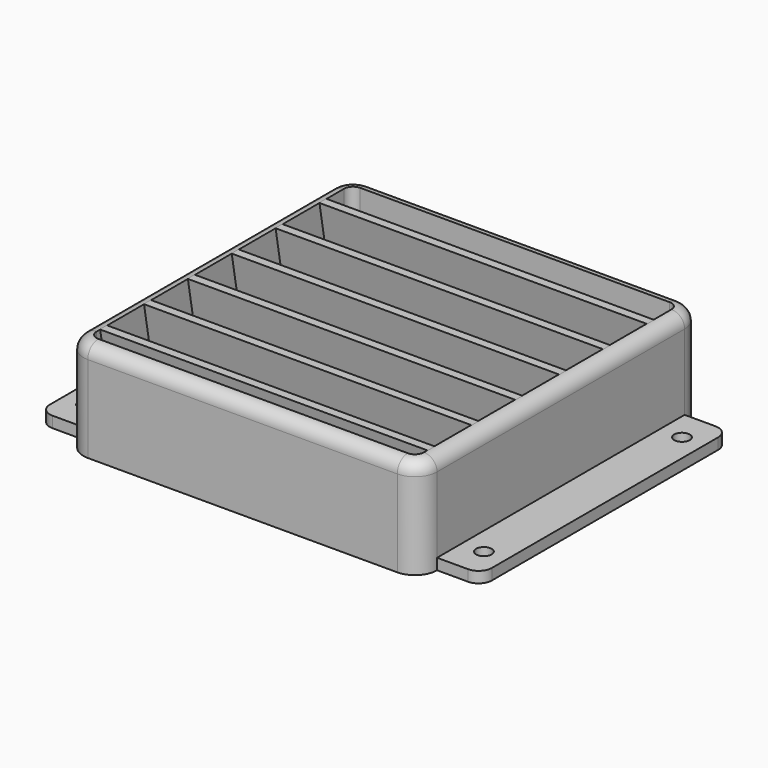
from build123d import *

# Parameters (mm, degrees)
PAD_DEPTH           = 2.5
FILLET_R            = 3
SKETCH002_R         = 1.75
POCKET_DEPTH        = 0.001
POCKET_DEPTH_BACK   = -2.501
PAD001_DEPTH        = 20
FILLET001_R         = 2.9
PAD002_DEPTH        = 74
LINEARPATTERN_COUNT = 6
LINEARPATTERN_PITCH = 12.4


with BuildPart() as part:
    # Sketch001 → Pad (new body)
    with BuildSketch(Plane.XY):
        with BuildLine():
            Line((-50, 35), (-40, 35))
            ThreePointArc((-35, 40), (-38.535534, 38.535534), (-40, 35))
            Line((-35, 40), (35, 40))
            ThreePointArc((40, 35), (38.535534, 38.535534), (35, 40))
            Line((40, 35), (50, 35))
            Line((50, 35), (50, -35))
            Line((50, -35), (40, -35))
            ThreePointArc((35, -40), (38.535534, -38.535534), (40, -35))
            Line((35, -40), (-35, -40))
            ThreePointArc((-40, -35), (-38.535534, -38.535534), (-35, -40))
            Line((-50, -35), (-40, -35))
            Line((-50, 35), (-50, -35))
        make_face()
        with BuildLine():
            ThreePointArc((-35, 37), (-36.414214, 36.414214), (-37, 35))
            Line((-37, -35), (-37, 35))
            ThreePointArc((-37, -35), (-36.414214, -36.414214), (-35, -37))
            Line((35, -37), (-35, -37))
            ThreePointArc((35, -37), (36.414214, -36.414214), (37, -35))
            Line((37, 35), (37, -35))
            ThreePointArc((37, 35), (36.414214, 36.414214), (35, 37))
            Line((-35, 37), (35, 37))
        make_face(mode=Mode.SUBTRACT)
    extrude(amount=PAD_DEPTH)

    # Fillet
    fillet_edges = [part.edges().sort_by_distance(p)[0] for p in [
        (-50, -35, 1.25),
        (50, -35, 1.25),
        (-50, 35, 1.25),
        (50, 35, 1.25),
    ]]
    fillet(fillet_edges, radius=FILLET_R)

    # Sketch002 → Pocket (cut, two sides)
    with BuildSketch(Plane.XY) as pocket_sk:
        with Locations((-45, 28)):
            Circle(SKETCH002_R)
        with Locations((-45, -28)):
            Circle(SKETCH002_R)
        with Locations((45, -28)):
            Circle(SKETCH002_R)
        with Locations((45, 28)):
            Circle(SKETCH002_R)
    extrude(amount=-POCKET_DEPTH, mode=Mode.SUBTRACT)
    extrude(pocket_sk.sketch, amount=-POCKET_DEPTH_BACK, mode=Mode.SUBTRACT)

    # Sketch003 → Pad001 (join)
    with BuildSketch(Plane.XY.offset(2.5)):
        with BuildLine():
            ThreePointArc((-35, 40), (-38.535534, 38.535534), (-40, 35))
            Line((-40, -35), (-40, 35))
            ThreePointArc((-40, -35), (-38.535534, -38.535534), (-35, -40))
            Line((35, -40), (-35, -40))
            ThreePointArc((35, -40), (38.535534, -38.535534), (40, -35))
            Line((40, 35), (40, -35))
            ThreePointArc((40, 35), (38.535534, 38.535534), (35, 40))
            Line((-35, 40), (35, 40))
        make_face()
        with BuildLine():
            ThreePointArc((-35, 37), (-36.414214, 36.414214), (-37, 35))
            Line((-37, -35), (-37, 35))
            ThreePointArc((-37, -35), (-36.414214, -36.414214), (-35, -37))
            Line((35, -37), (-35, -37))
            ThreePointArc((35, -37), (36.414214, -36.414214), (37, -35))
            Line((37, 35), (37, -35))
            ThreePointArc((37, 35), (36.414214, 36.414214), (35, 37))
            Line((-35, 37), (35, 37))
        make_face(mode=Mode.SUBTRACT)
    extrude(amount=PAD001_DEPTH)

    # Fillet001
    fillet001_edges = [part.edges().sort_by_distance(p)[0] for p in [
        (0, 40, 22.5),
    ]]
    fillet(fillet001_edges, radius=FILLET001_R)

    # Sketch004 → Pad002 (join)
    with BuildSketch(Plane.YZ.offset(-37)):
        Polygon((33.967357, 0), (30, 22.5), (28, 22.5), (31.967357, 0), align=None)
    pad002 = extrude(amount=PAD002_DEPTH)

    # LinearPattern: Pad002 ×6
    with Locations(*[(0, -i * LINEARPATTERN_PITCH, 0) for i in range(1, LINEARPATTERN_COUNT)]):
        add(pad002)


solid = part.part
